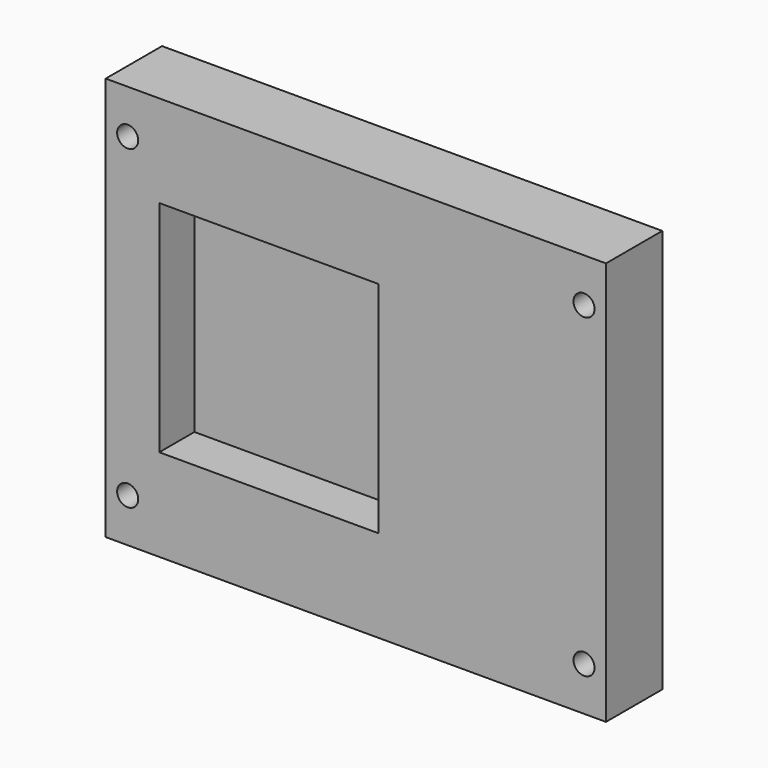
from build123d import *

# Parameters (mm, degrees)
F0_W     = 56.6928
F0_H     = 45.7454
F1_DEPTH = 7.9756
F3_D     = 2.3876
F4_W     = 24.8666
F4_H     = 24.8666
F5_DEPTH = 4.9784


with BuildPart() as f1:
    # F0 (on Front) → F1 (new body)
    with BuildSketch(Plane.XZ):
        with Locations((-17.6647957414, 3.0100650459)):
            Rectangle(F0_W, F0_H)
    extrude(amount=F1_DEPTH)

    # F3 (through all)
    with Locations(Plane.XZ.offset(7.9756)):
        with Locations((-43.5219957414, 20.9043650459), (8.1924042586, 20.9043650459), (8.1924042586, -14.8842349541), (-43.5219957414, -14.8842349541)):
            Hole(F3_D / 2)

    # F4 (on face) → F5 (cut)
    with BuildSketch(Plane.XZ.offset(7.9756)):
        with Locations((-27.5072957414, 3.0100650459)):
            Rectangle(F4_W, F4_H)
    extrude(amount=-F5_DEPTH, mode=Mode.SUBTRACT)


solid = f1.part
